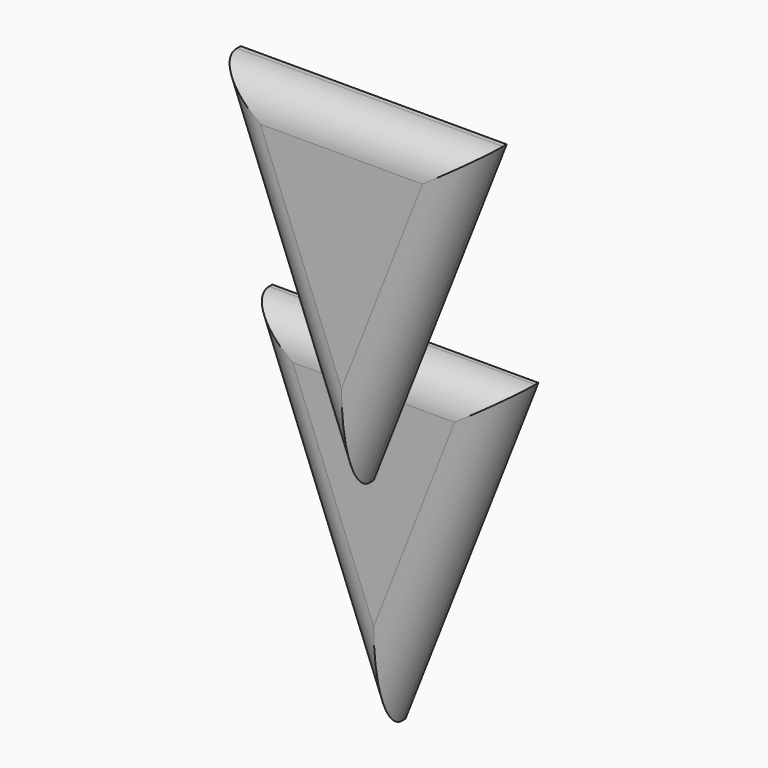
from build123d import *

# Parameters (mm, degrees)
F1_DEPTH = 3.4798
F2_R     = 3.066051
F5_DEPTH = 3.429
F6_R     = 3.0734


with BuildPart() as f1:
    # F0 (on Front) → F1 (new body)
    with BuildSketch(Plane.XZ):
        Polygon((11.497315, 29.308729), (-11.497315, 29.308729), (0, 0), align=None)
    extrude(amount=F1_DEPTH)

    # F2
    f2_edges = [f1.edges().sort_by_distance(p)[0] for p in [
        (0, -3.4798, 29.308729),
        (-5.748658, -3.4798, 14.654364),
        (5.748658, -3.4798, 14.654364),
    ]]
    fillet(f2_edges, radius=F2_R)


with BuildPart() as f5:
    # F4 (on offset) → F5 (new body)
    with BuildSketch(Plane.XZ.offset(-3.429)):
        Polygon((11.497315, 9.769576), (-11.497315, 9.769576), (0, -19.539153), align=None)
    extrude(amount=F5_DEPTH)

    # F6
    f6_edges = [f5.edges().sort_by_distance(p)[0] for p in [
        (5.748658, 0, -4.884788),
        (0, 0, 9.769576),
        (-5.748658, 0, -4.884788),
    ]]
    fillet(f6_edges, radius=F6_R)


solid = Compound([f1.part, f5.part])
